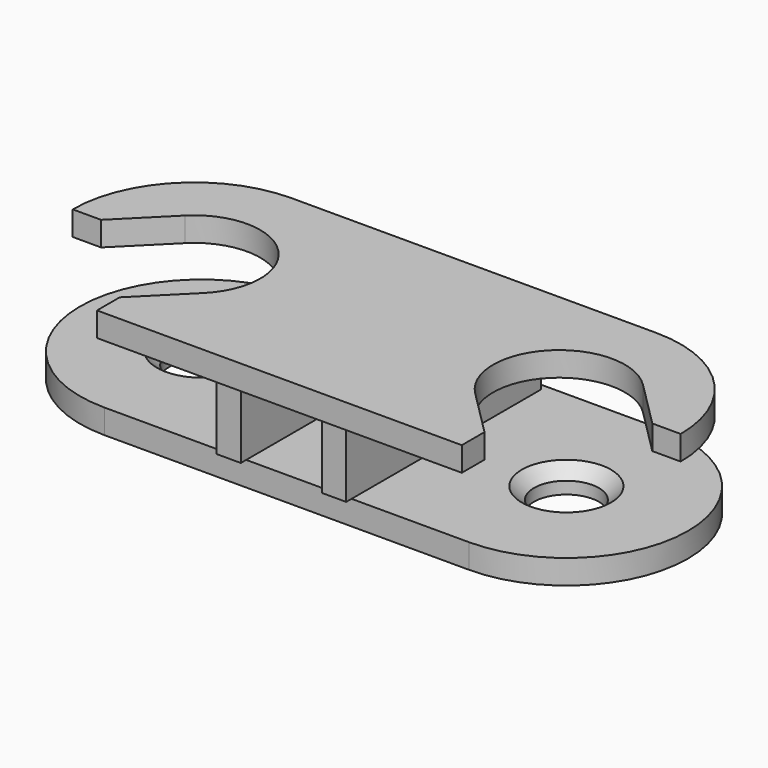
from build123d import *

# Parameters (mm, degrees)
F1_DEPTH = 3
F3_R     = 4
F5_DEPTH = 3
F6_SIZE  = 1.5
F8_W     = 3
F8_H     = 30
F9_DEPTH = 8


with BuildPart() as f1:
    # F0 (on Top) → F1 (new body)
    with BuildSketch(Plane.XY):
        with BuildLine():
            Line((22.5, 15), (-22.5, 15))
            ThreePointArc((-22.5, 15), (-33.1066017178, 10.6066017178), (-37.5, 0))
            Line((-37.5, 0), (-34, 0))
            Line((-34, 0), (-28.25, 5.75))
            ThreePointArc((-28.25, 5.75), (-16.75, 5.75), (-16.75, -5.75))
            Line((-16.75, -5.75), (-22.5, -11.5))
            Line((-22.5, -11.5), (-22.5, -15))
            Line((-22.5, -15), (22.5, -15))
            Line((22.5, -15), (22.5, -11.5))
            Line((22.5, -11.5), (16.75, -5.75))
            ThreePointArc((16.75, -5.75), (16.75, 5.75), (28.25, 5.75))
            Line((28.25, 5.75), (34, 0))
            Line((34, 0), (37.5, 0))
            ThreePointArc((37.5, 0), (33.1066017178, 10.6066017178), (22.5, 15))
        make_face()
    extrude(amount=F1_DEPTH)


with BuildPart() as f1_1:
    # F4: moved
    add(f1.part.moved(Location((0, -0.3, 0))))


with BuildPart() as f5:
    # F3 (on offset) → F5 (new body)
    with BuildSketch(Plane.XY.offset(-11)):
        with BuildLine():
            Line((22.5, 15.8271628176), (-22.5, 15.8271628176))
            ThreePointArc((-22.5, 15.8271628176), (-33.1066017178, 11.4337645354), (-37.5, 0.8271628176))
            ThreePointArc((-37.5, 0.8271628176), (-33.1066017178, -9.7794389002), (-22.5, -14.1728371824))
            Line((-22.5, -14.1728371824), (22.5, -14.1728371824))
            ThreePointArc((22.5, -14.1728371824), (33.1066017178, -9.7794389002), (37.5, 0.8271628176))
            ThreePointArc((37.5, 0.8271628176), (33.1066017178, 11.4337645354), (22.5, 15.8271628176))
        make_face()
        with Locations((-22.5, 0.8271628176)):
            Circle(F3_R, mode=Mode.SUBTRACT)
        with Locations((22.5, 0.8271628176)):
            Circle(F3_R, mode=Mode.SUBTRACT)
    extrude(amount=F5_DEPTH)

    # F6
    f6_edges = [f5.edges().sort_by_distance(p)[0] for p in [
        (-26.5, 0.827163, -8),
        (18.5, 0.827163, -8),
    ]]
    chamfer(f6_edges, length=F6_SIZE)

    # F8 (on offset) → F9 (join)
    with BuildSketch(Plane.XY.offset(-8)):
        with Locations((-6.5, 0)):
            Rectangle(F8_W, F8_H)
        with Locations((6.5, 0)):
            Rectangle(F8_W, F8_H)
    extrude(amount=F9_DEPTH)


solid = Compound([f1_1.part, f5.part])
